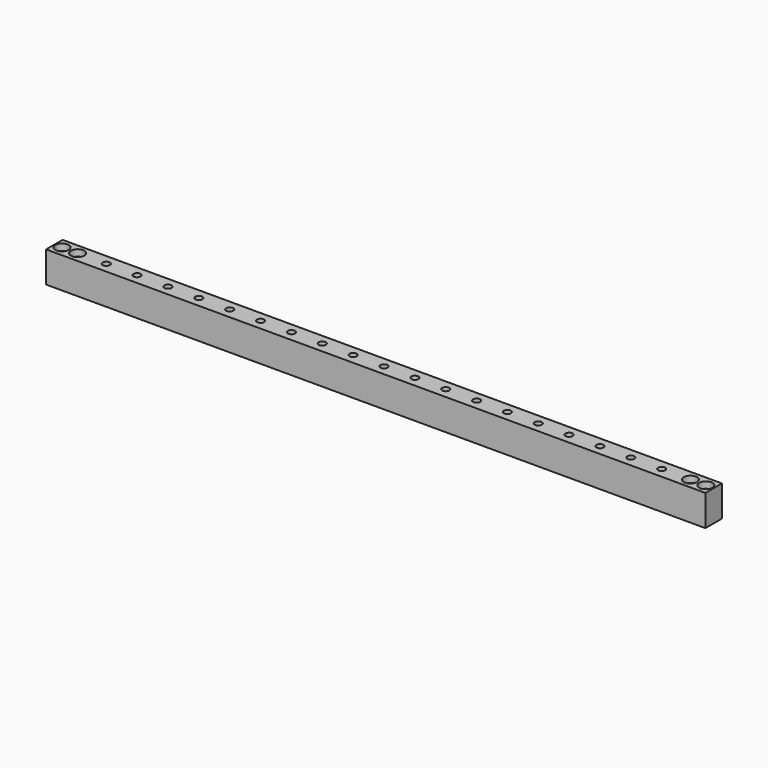
from build123d import *

# Parameters (mm, degrees)
F0_W           = 406
F0_H           = 12.7
F1_DEPTH       = 9.55
F3_D           = 4.4
F3_DEPTH       = 20
F3_CBORE_D     = 8.25
F3_CBORE_DEPTH = 4
F3_TIP         = 1.3218933619
F5_D           = 4.4


with BuildPart() as f1:
    # F0 (on Top) → F1 (new body, symmetric)
    with BuildSketch(Plane.XY):
        Rectangle(F0_W, F0_H)
    extrude(amount=F1_DEPTH, both=True)

    # F3
    with Locations(Plane.XY.offset(9.55)):
        with Locations((-198.2, 0), (-188.7, 0), (188.7, 0), (198.2, 0)):
            CounterBoreHole(F3_D / 2, F3_CBORE_D / 2, F3_CBORE_DEPTH, depth=F3_DEPTH)
            with Locations((0, 0, -(F3_DEPTH + F3_TIP / 2))):  # 118° drill point
                Cone(0, F3_D / 2, F3_TIP, mode=Mode.SUBTRACT)

    # F5 (through all)
    with Locations(Plane.XY.offset(9.55)):
        with Locations((-171, 0), (-152, 0), (-133, 0), (-114, 0), (-95, 0), (-57, 0), (-38, 0), (-76, 0), (-19, 0), (0, 0), (19, 0), (38, 0), (57, 0), (76, 0), (95, 0), (114, 0), (133, 0), (152, 0), (171, 0), (133, 0)):
            Hole(F5_D / 2)


solid = f1.part
